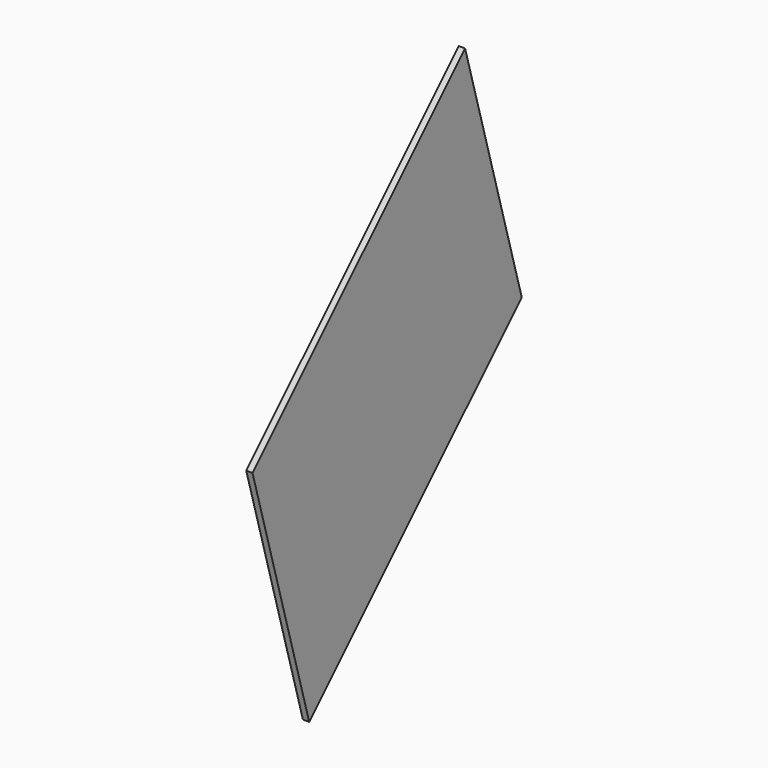
from build123d import *

# Parameters (mm, degrees)
F1_DEPTH = 0.5
F4_ANGLE = -45


with BuildPart() as f1:
    # F0 (on Right) → F1 (new body)
    with BuildSketch(Plane.YZ):
        Polygon((-20, 0), (-30, -18), (0, -18), (10, 0), (0, 0), align=None)
    extrude(amount=F1_DEPTH)


with BuildPart() as f1_1:
    # F3: moved
    add(f1.part.moved(Location((-0.5, 30, -77))))


with BuildPart() as f1_2:
    # F4: moved
    add(f1_1.part.rotate(Axis((-0.25, 0, -95), (-1, 0, 0)), F4_ANGLE))


with BuildPart() as f1_3:
    # F5: moved
    add(f1_2.part.moved(Location((0, -3, 0))))


solid = f1_3.part
